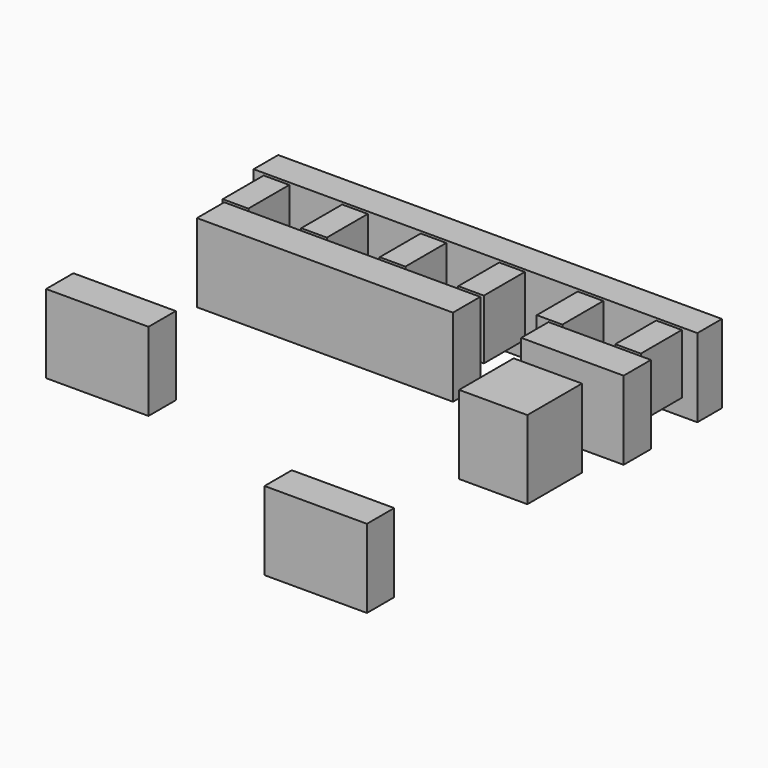
from build123d import *

# Parameters (mm, degrees)
BOX010_W     = 6
BOX010_H     = 2
BOX010_DEPTH = 4.6
BOX008_W     = 4
BOX008_H     = 4
BOX008_DEPTH = 4.6
BOX007_W     = 26
BOX007_H     = 1.8
BOX007_DEPTH = 4.6
BOX009_W     = 6
BOX009_H     = 2
BOX009_DEPTH = 4.6
BOX016_W     = 15
BOX016_H     = 2
BOX016_DEPTH = 4.6
BOX017_W     = 1.5
BOX017_H     = 3
BOX017_DEPTH = 3.5
BOX018_W     = 1.5
BOX018_H     = 3
BOX018_DEPTH = 3.5
BOX019_W     = 1.5
BOX019_H     = 3
BOX019_DEPTH = 3.5
BOX020_W     = 1.5
BOX020_H     = 3
BOX020_DEPTH = 3.5
BOX021_W     = 1.5
BOX021_H     = 3
BOX021_DEPTH = 3.5
BOX022_W     = 1.5
BOX022_H     = 3
BOX022_DEPTH = 3.5
BOX011_W     = 6
BOX011_H     = 2
BOX011_DEPTH = 4.6


with BuildPart() as obj1:
    # Box010 → Box010 (new body)
    with BuildSketch(Plane(origin=(7, 5.8, 2.4), x_dir=(1, 0, 0), z_dir=(0, 0, 1))):
        with Locations((3, 1)):
            Rectangle(BOX010_W, BOX010_H)
    extrude(amount=BOX010_DEPTH)


with BuildPart() as obj2:
    # Box008 → Box008 (new body)
    with BuildSketch(Plane(origin=(8, 0, 2.4), x_dir=(1, 0, 0), z_dir=(0, 0, 1))):
        with Locations((2, 2)):
            Rectangle(BOX008_W, BOX008_H)
    extrude(amount=BOX008_DEPTH)


with BuildPart() as obj3:
    # Box007 → Box007 (new body)
    with BuildSketch(Plane(origin=(-13, 11.2, 2.4), x_dir=(1, 0, 0), z_dir=(0, 0, 1))):
        with Locations((13, 0.9)):
            Rectangle(BOX007_W, BOX007_H)
    extrude(amount=BOX007_DEPTH)


with BuildPart() as obj4:
    # Box009 → Box009 (new body)
    with BuildSketch(Plane(origin=(-13, -4, 2.4), x_dir=(1, 0, 0), z_dir=(0, 0, 1))):
        with Locations((3, 1)):
            Rectangle(BOX009_W, BOX009_H)
    extrude(amount=BOX009_DEPTH)


with BuildPart() as obj5:
    # Box016 → Box016 (new body)
    with BuildSketch(Plane(origin=(-12, 5.8, 2.4), x_dir=(1, 0, 0), z_dir=(0, 0, 1))):
        with Locations((7.5, 1)):
            Rectangle(BOX016_W, BOX016_H)
    extrude(amount=BOX016_DEPTH)


with BuildPart() as obj6:
    # Box017 → Box017 (new body)
    with BuildSketch(Plane(origin=(1.55, 8, 3.5), x_dir=(1, 0, 0), z_dir=(0, 0, 1))):
        with Locations((0.75, 1.5)):
            Rectangle(BOX017_W, BOX017_H)
    extrude(amount=BOX017_DEPTH)


with BuildPart() as obj7:
    # Box018 → Box018 (new body)
    with BuildSketch(Plane(origin=(6.15, 8, 3.5), x_dir=(1, 0, 0), z_dir=(0, 0, 1))):
        with Locations((0.75, 1.5)):
            Rectangle(BOX018_W, BOX018_H)
    extrude(amount=BOX018_DEPTH)


with BuildPart() as obj8:
    # Box019 → Box019 (new body)
    with BuildSketch(Plane(origin=(-3.05, 8, 3.5), x_dir=(1, 0, 0), z_dir=(0, 0, 1))):
        with Locations((0.75, 1.5)):
            Rectangle(BOX019_W, BOX019_H)
    extrude(amount=BOX019_DEPTH)


with BuildPart() as obj9:
    # Box020 → Box020 (new body)
    with BuildSketch(Plane(origin=(-7.65, 8, 3.5), x_dir=(1, 0, 0), z_dir=(0, 0, 1))):
        with Locations((0.75, 1.5)):
            Rectangle(BOX020_W, BOX020_H)
    extrude(amount=BOX020_DEPTH)


with BuildPart() as obj10:
    # Box021 → Box021 (new body)
    with BuildSketch(Plane(origin=(-12.25, 8, 3.5), x_dir=(1, 0, 0), z_dir=(0, 0, 1))):
        with Locations((0.75, 1.5)):
            Rectangle(BOX021_W, BOX021_H)
    extrude(amount=BOX021_DEPTH)


with BuildPart() as obj11:
    # Box022 → Box022 (new body)
    with BuildSketch(Plane(origin=(10.75, 8, 3.5), x_dir=(1, 0, 0), z_dir=(0, 0, 1))):
        with Locations((0.75, 1.5)):
            Rectangle(BOX022_W, BOX022_H)
    extrude(amount=BOX022_DEPTH)


with BuildPart() as fusion002:
    # Box011 → Box011 (new body)
    with BuildSketch(Plane(origin=(7, -13, 2.4), x_dir=(1, 0, 0), z_dir=(0, 0, 1))):
        with Locations((3, 1)):
            Rectangle(BOX011_W, BOX011_H)
    extrude(amount=BOX011_DEPTH)

    # Fusion002: union obj1, obj2, obj3, obj4, obj5, obj6, obj7, obj8, obj9, obj10, obj11
    add(obj1.part)
    add(obj2.part)
    add(obj3.part)
    add(obj4.part)
    add(obj5.part)
    add(obj6.part)
    add(obj7.part)
    add(obj8.part)
    add(obj9.part)
    add(obj10.part)
    add(obj11.part)


solid = fusion002.part
